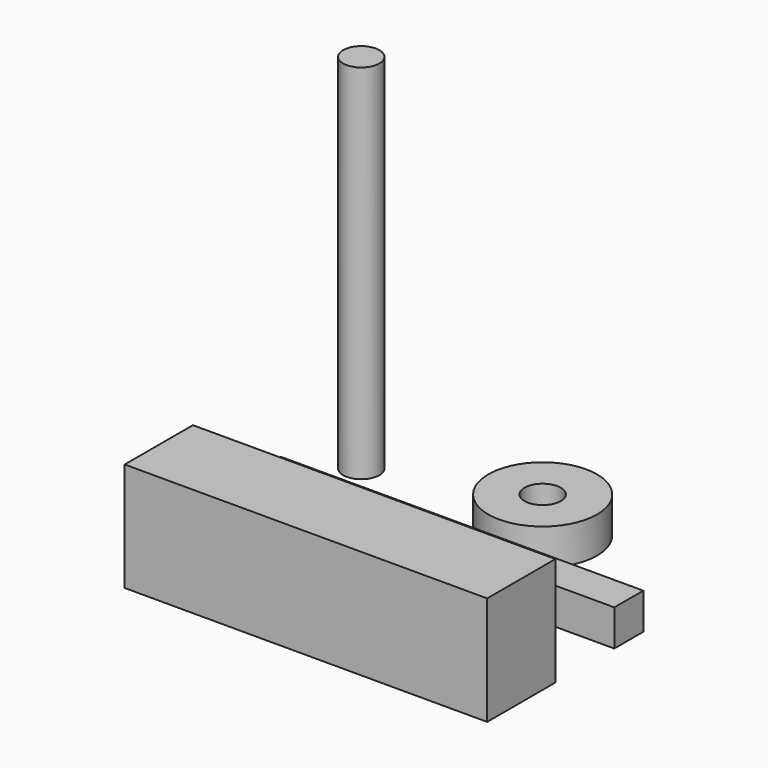
from build123d import *

# Parameters (mm, degrees)
F0_R     = 15
F0_R_2   = 5
F0_W     = 100
F0_H     = 10
F1_DEPTH = 10
F2_DEPTH = 100
F0_H_2   = 23.502034
F3_DEPTH = 30


with BuildPart() as f1:
    # F0 (on Top) → F1 (new body)
    with BuildSketch(Plane.XY):
        Circle(F0_R)
        Circle(F0_R_2, mode=Mode.SUBTRACT)
        with Locations((-5.024605, -26.522572)):
            Rectangle(F0_W, F0_H)
    extrude(amount=F1_DEPTH)


with BuildPart() as f2:
    # F0 (on Top) → F2 (new body)
    with BuildSketch(Plane.XY):
        with Locations((-50.051518, 0)):
            Circle(F0_R_2)
    extrude(amount=F2_DEPTH)


with BuildPart() as f3:
    # F0 (on Top) → F3 (new body)
    with BuildSketch(Plane.XY):
        with Locations((-5.024605, -63.6035)):
            Rectangle(F0_W, F0_H_2)
    extrude(amount=F3_DEPTH)


solid = Compound([f1.part, f2.part, f3.part])
